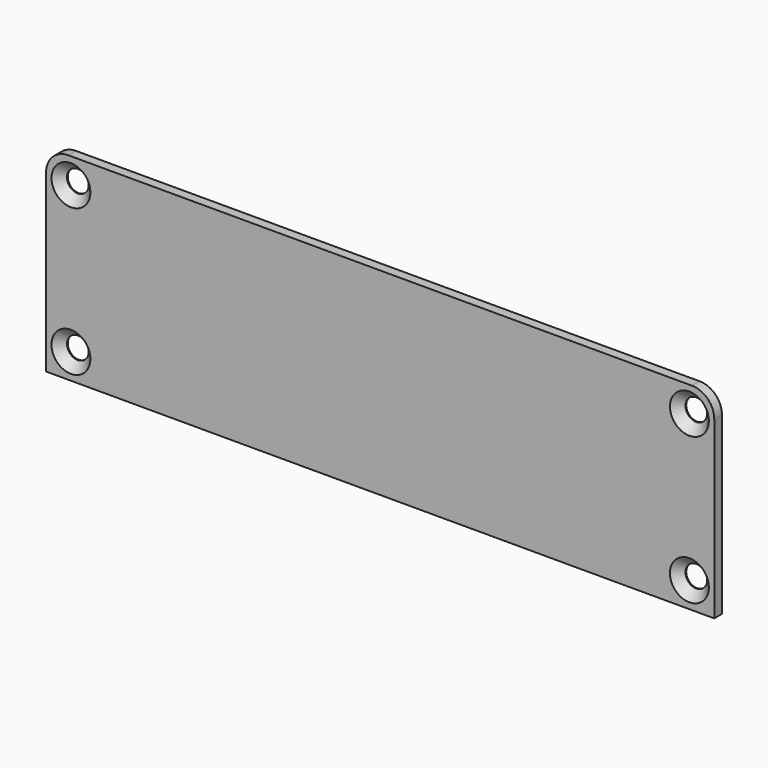
from build123d import *

# Parameters (mm, degrees)
SKETCH_W         = 104.8
SKETCH_H         = 31
PAD_DEPTH        = 1.5
HOLE_D           = 3.4
HOLE_DEPTH       = 25
HOLE_CSINK_D     = 6.1
HOLE_CSINK_ANGLE = 90
FILLET_R         = 3.5


with BuildPart() as part:
    # Sketch → Pad (new body)
    with BuildSketch(Plane.XZ):
        Rectangle(SKETCH_W, SKETCH_H)
    extrude(amount=PAD_DEPTH)

    # Hole
    with Locations(Plane.XZ.offset(1.5)):
        with Locations((-48.5, 11.5), (-48.5, -11.5), (48.5, -11.5), (48.5, 11.5)):
            CounterSinkHole(HOLE_D / 2, HOLE_CSINK_D / 2, depth=HOLE_DEPTH, counter_sink_angle=HOLE_CSINK_ANGLE)

    # Fillet
    fillet_edges = [part.edges().sort_by_distance(p)[0] for p in [
        (-52.4, -0.75, 15.5),
        (52.4, -0.75, 15.5),
    ]]
    fillet(fillet_edges, radius=FILLET_R)


solid = part.part
